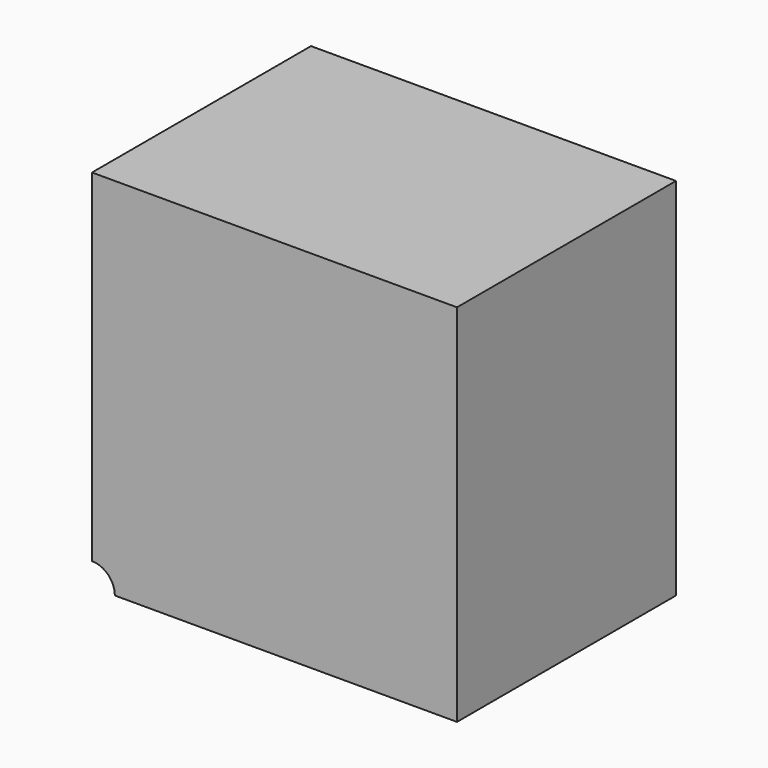
from build123d import *

# Parameters (mm, degrees)
F3_DEPTH = 5
F4_DEPTH = 6


with BuildPart() as f3:
    # F2 (on Front) → F3 (new body)
    with BuildSketch(Plane.XZ):
        with BuildLine():
            Line((0, 0.5), (0, 0))
            Line((0, 0), (0.5, 0))
            ThreePointArc((0.5, 0), (0.3535533906, 0.3535533906), (0, 0.5))
        make_face()
    extrude(amount=F3_DEPTH)

    # F2 (on Front) → F4 (join)
    with BuildSketch(Plane.XZ):
        with BuildLine():
            ThreePointArc((0, 0.5), (0.3535533906, 0.3535533906), (0.5, 0))
            Line((0.5, 0), (1.25, 0))
            ThreePointArc((1.25, 0), (0.8838834765, 0.8838834765), (0, 1.25))
            Line((0, 1.25), (0, 0.5))
        make_face()
        with BuildLine():
            ThreePointArc((0, 1.25), (0.8838834765, 0.8838834765), (1.25, 0))
            Line((1.25, 0), (5, 0))
            ThreePointArc((5, 0), (3.5355339059, 3.5355339059), (0, 5))
            Line((0, 5), (0, 1.25))
        make_face()
        with BuildLine():
            ThreePointArc((0, 5), (3.5355339059, 3.5355339059), (5, 0))
            Line((5, 0), (8, 0))
            Line((8, 0), (8, 8))
            Line((8, 8), (0, 8))
            Line((0, 8), (0, 5))
        make_face()
    extrude(amount=F4_DEPTH)


solid = f3.part
